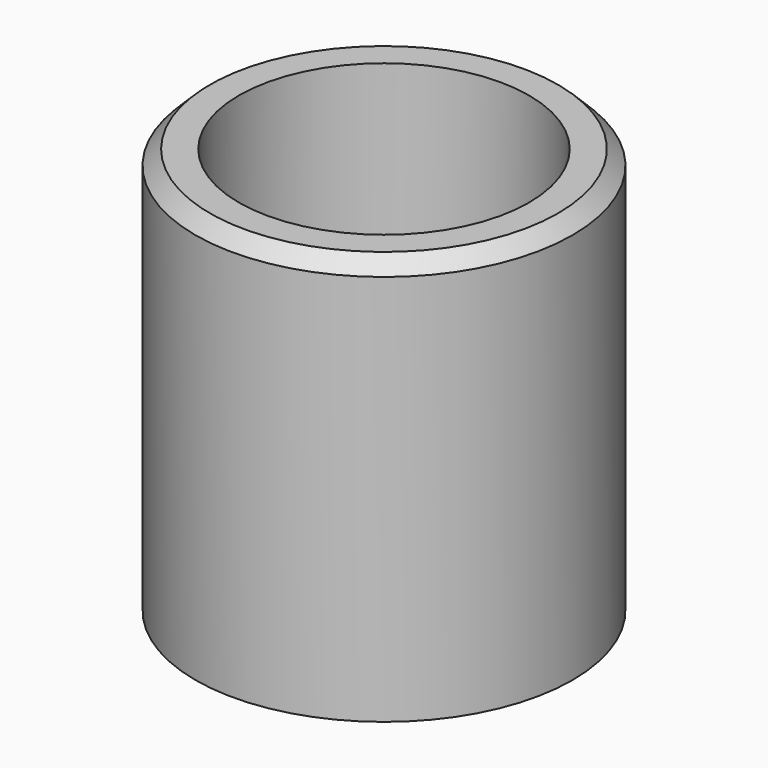
from build123d import *

# Parameters (mm, degrees)
SKETCH_R     = 6.5
SKETCH_R_2   = 5
PAD_DEPTH    = 14
CHAMFER_SIZE = 0.5


with BuildPart() as part:
    # Sketch → Pad (new body)
    with BuildSketch(Plane.XY):
        Circle(SKETCH_R)
        Circle(SKETCH_R_2, mode=Mode.SUBTRACT)
    extrude(amount=PAD_DEPTH)

    # Chamfer
    chamfer_edges = [part.edges().sort_by_distance(p)[0] for p in [
        (-6.5, 0, 14),
    ]]
    chamfer(chamfer_edges, length=CHAMFER_SIZE)


solid = part.part
